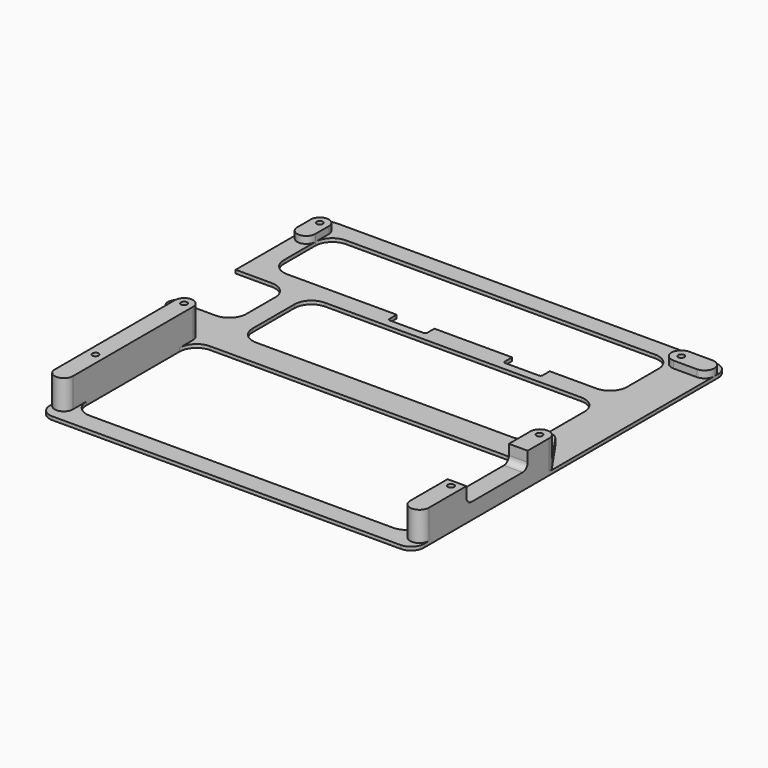
from build123d import *

# Parameters (mm, degrees)
SKETCH_R        = 1.45
PAD001_DEPTH    = 1.6
SKETCH001_R     = 1.45
PAD002_DEPTH    = 13.75
POCKET_DEPTH    = 15
SKETCH003_R     = 1.45
PAD003_DEPTH    = 3.4
POCKET001_DEPTH = 5
POCKET002_DEPTH = 10


with BuildPart() as part:
    # Sketch → Pad001 (new body)
    with BuildSketch(Plane.XY):
        with BuildLine():
            Line((12.25, 182), (190.25, 182))
            ThreePointArc((196.25, 176), (194.492641, 180.242641), (190.25, 182))
            Line((196.25, 176), (196.25, 3))
            ThreePointArc((190.25, -3), (194.492641, -1.242641), (196.25, 3))
            Line((190.25, -3), (12.25, -3))
            ThreePointArc((6.25, 3), (8.007359, -1.242641), (12.25, -3))
            Line((6.25, 3), (6.25, 97))
            Line((23.25, 97), (6.25, 97))
            ThreePointArc((23.25, 97), (28.906854, 99.343146), (31.25, 105))
            Line((31.25, 122), (31.25, 105))
            ThreePointArc((31.25, 122), (28.906854, 127.656854), (23.25, 130))
            Line((6.25, 130), (23.25, 130))
            Line((6.25, 130), (6.25, 176))
            ThreePointArc((12.25, 182), (8.007359, 180.242641), (6.25, 176))
        make_face()
        with Locations((11, 173.49762)):
            Circle(SKETCH_R, mode=Mode.SUBTRACT)
        with Locations((11, 89.49762)):
            Circle(SKETCH_R, mode=Mode.SUBTRACT)
        with Locations((180.742493, 173.605331)):
            Circle(SKETCH_R, mode=Mode.SUBTRACT)
        with Locations((181.761108, 91.056091)):
            Circle(SKETCH_R, mode=Mode.SUBTRACT)
        with Locations((24.67, 76.67)):
            Circle(SKETCH_R, mode=Mode.SUBTRACT)
        with Locations((24.67, 24.67)):
            Circle(SKETCH_R, mode=Mode.SUBTRACT)
        with Locations((191.67, 24.67)):
            Circle(SKETCH_R, mode=Mode.SUBTRACT)
        with Locations((191.67, 76.67)):
            Circle(SKETCH_R, mode=Mode.SUBTRACT)
        with BuildLine():
            ThreePointArc((40.25, 97.49762), (42.593146, 91.840766), (48.25, 89.49762))
            Line((168.624548, 89.49762), (48.25, 89.49762))
            ThreePointArc((168.624548, 89.49762), (174.281402, 91.840766), (176.624548, 97.49762))
            Line((176.624548, 122), (176.624548, 97.49762))
            ThreePointArc((176.624548, 122), (174.281402, 127.656854), (168.624548, 130))
            Line((48.25, 130), (168.624548, 130))
            ThreePointArc((48.25, 130), (42.593146, 127.656854), (40.25, 122))
            Line((40.25, 97.49762), (40.25, 122))
        make_face(mode=Mode.SUBTRACT)
        with BuildLine():
            ThreePointArc((15.25, 147), (17.593146, 141.343146), (23.25, 139))
            Line((168.563514, 139), (23.25, 139))
            ThreePointArc((168.563514, 139), (174.220369, 141.343146), (176.563514, 147))
            Line((176.563514, 165.49762), (176.563514, 147))
            ThreePointArc((176.563514, 165.49762), (174.220369, 171.154474), (168.563514, 173.49762))
            Line((23.25, 173.49762), (168.563514, 173.49762))
            ThreePointArc((23.25, 173.49762), (17.593146, 171.154474), (15.25, 165.49762))
            Line((15.25, 147), (15.25, 165.49762))
        make_face(mode=Mode.SUBTRACT)
        with BuildLine():
            ThreePointArc((28.92, 14), (31.263146, 8.343146), (36.92, 6))
            Line((179.42, 6), (36.92, 6))
            ThreePointArc((179.42, 6), (185.076854, 8.343146), (187.42, 14))
            Line((187.42, 68.67), (187.42, 14))
            ThreePointArc((187.42, 68.67), (185.076854, 74.326854), (179.42, 76.67))
            Line((36.92, 76.67), (179.42, 76.67))
            ThreePointArc((36.92, 76.67), (31.263146, 74.326854), (28.92, 68.67))
            Line((28.92, 14), (28.92, 68.67))
        make_face(mode=Mode.SUBTRACT)
    extrude(amount=-PAD001_DEPTH)

    # Sketch001 → Pad002 (join)
    with BuildSketch(Plane.XY):
        with BuildLine():
            ThreePointArc((28.92, 76.67), (24.67, 80.92), (20.42, 76.67))
            Line((20.42, 76.67), (20.42, 6))
            ThreePointArc((20.42, 6), (24.67, 1.75), (28.92, 6))
            Line((28.92, 6), (28.92, 76.67))
        make_face()
        with Locations((24.67, 24.67)):
            Circle(SKETCH001_R, mode=Mode.SUBTRACT)
        with Locations((24.67, 76.67)):
            Circle(SKETCH001_R, mode=Mode.SUBTRACT)
        with BuildLine():
            ThreePointArc((196.25, 76.67), (191.835, 81.085), (187.42, 76.67))
            Line((187.42, 76.67), (187.42, 6))
            ThreePointArc((187.42, 6), (191.835, 1.585), (196.25, 6))
            Line((196.25, 6), (196.25, 76.67))
        make_face()
        with Locations((191.67, 76.67)):
            Circle(SKETCH001_R, mode=Mode.SUBTRACT)
        with Locations((191.67, 24.67)):
            Circle(SKETCH001_R, mode=Mode.SUBTRACT)
    extrude(amount=PAD002_DEPTH)

    # Sketch002 (on Face56 of Pad002) → Pocket (cut)
    with BuildSketch(Plane.YZ.offset(196.25)):
        with BuildLine():
            ThreePointArc((31, 22), (28.87868, 21.12132), (28, 19))
            Line((28, 9), (28, 19))
            ThreePointArc((28, 9), (28.87868, 6.87868), (31, 6))
            Line((61, 6), (31, 6))
            ThreePointArc((61, 6), (63.12132, 6.87868), (64, 9))
            Line((64, 19), (64, 9))
            ThreePointArc((64, 19), (63.12132, 21.12132), (61, 22))
            Line((31, 22), (61, 22))
        make_face()
    extrude(amount=-POCKET_DEPTH, mode=Mode.SUBTRACT)

    # Sketch003 → Pad003 (join)
    with BuildSketch(Plane.XY.offset(-0.1)):
        with BuildLine():
            ThreePointArc((185.508165, 93.637), (179.180199, 94.803148), (178.014051, 88.475182))
            Line((178.014051, 88.475182), (187.922943, 74.089091))
            ThreePointArc((187.922943, 74.089091), (194.250909, 72.922943), (195.417057, 79.250909))
            Line((195.417057, 79.250909), (185.508165, 93.637))
        make_face()
        with Locations((191.67, 76.67)):
            Circle(SKETCH003_R, mode=Mode.SUBTRACT)
        with Locations((181.761108, 91.056091)):
            Circle(SKETCH003_R, mode=Mode.SUBTRACT)
        with BuildLine():
            ThreePointArc((13.908197, 92.596796), (7.900824, 92.405817), (8.091803, 86.398444))
            Line((8.091803, 86.398444), (21.761803, 73.570824))
            ThreePointArc((21.761803, 73.570824), (27.769176, 73.761803), (27.578197, 79.769176))
            Line((27.578197, 79.769176), (13.908197, 92.596796))
        make_face()
        with Locations((24.67, 76.67)):
            Circle(SKETCH003_R, mode=Mode.SUBTRACT)
        with Locations((11, 89.49762)):
            Circle(SKETCH003_R, mode=Mode.SUBTRACT)
        with BuildLine():
            ThreePointArc((15.25, 173.49762), (11, 177.74762), (6.75, 173.49762))
            Line((6.75, 173.49762), (6.75, 165.49762))
            ThreePointArc((6.75, 165.49762), (11, 161.24762), (15.25, 165.49762))
            Line((15.25, 165.49762), (15.25, 173.49762))
        make_face()
        with Locations((11, 173.49762)):
            Circle(SKETCH003_R, mode=Mode.SUBTRACT)
        with BuildLine():
            ThreePointArc((180.742493, 178.155224), (176.1926, 173.605331), (180.742493, 169.055438))
            Line((180.742493, 169.055438), (191.700107, 169.055438))
            ThreePointArc((191.700107, 169.055438), (196.25, 173.605331), (191.700107, 178.155224))
            Line((191.700107, 178.155224), (180.742493, 178.155224))
        make_face()
        with Locations((180.742493, 173.605331)):
            Circle(SKETCH003_R, mode=Mode.SUBTRACT)
    extrude(amount=PAD003_DEPTH)

    # Sketch004 → Pocket001 (cut)
    with BuildSketch(Plane.XY):
        with BuildLine():
            ThreePointArc((75.723694, 140.85524), (75.016587, 140.562347), (74.723694, 139.85524))
            Line((74.723694, 134.85524), (74.723694, 139.85524))
            ThreePointArc((74.723694, 134.85524), (75.016587, 134.148133), (75.723694, 133.85524))
            Line((91.423694, 133.85524), (75.723694, 133.85524))
            ThreePointArc((91.423694, 133.85524), (92.130801, 134.148133), (92.423694, 134.85524))
            Line((92.423694, 139.85524), (92.423694, 134.85524))
            ThreePointArc((92.423694, 139.85524), (92.130801, 140.562347), (91.423694, 140.85524))
            Line((75.723694, 140.85524), (91.423694, 140.85524))
        make_face()
        with BuildLine():
            ThreePointArc((129.923694, 140.85524), (129.216587, 140.562347), (128.923694, 139.85524))
            Line((128.923694, 134.85524), (128.923694, 139.85524))
            ThreePointArc((128.923694, 134.85524), (129.216587, 134.148133), (129.923694, 133.85524))
            Line((145.623694, 133.85524), (129.923694, 133.85524))
            ThreePointArc((145.623694, 133.85524), (146.330801, 134.148133), (146.623694, 134.85524))
            Line((146.623694, 139.85524), (146.623694, 134.85524))
            ThreePointArc((146.623694, 139.85524), (146.330801, 140.562347), (145.623694, 140.85524))
            Line((129.923694, 140.85524), (145.623694, 140.85524))
        make_face()
    extrude(amount=-POCKET001_DEPTH, mode=Mode.SUBTRACT)

    # Sketch008 → Pocket002 (cut, symmetric)
    with BuildSketch(Plane.XY):
        with BuildLine():
            ThreePointArc((20.42, 3), (22.177359, -1.242641), (26.42, -3))
            Line((26.42, -33), (26.42, -3))
            Line((-9.58, -33), (26.42, -33))
            Line((-9.58, 84), (-9.58, -33))
            Line((20.42, 84), (-9.58, 84))
            Line((20.42, 3), (20.42, 84))
        make_face()
    extrude(amount=POCKET002_DEPTH, both=True, mode=Mode.SUBTRACT)


with BuildPart() as part_1:
    # Body001 placement: moved
    add(part.part.moved(Location((0, 0, -3.4))))


solid = part_1.part
